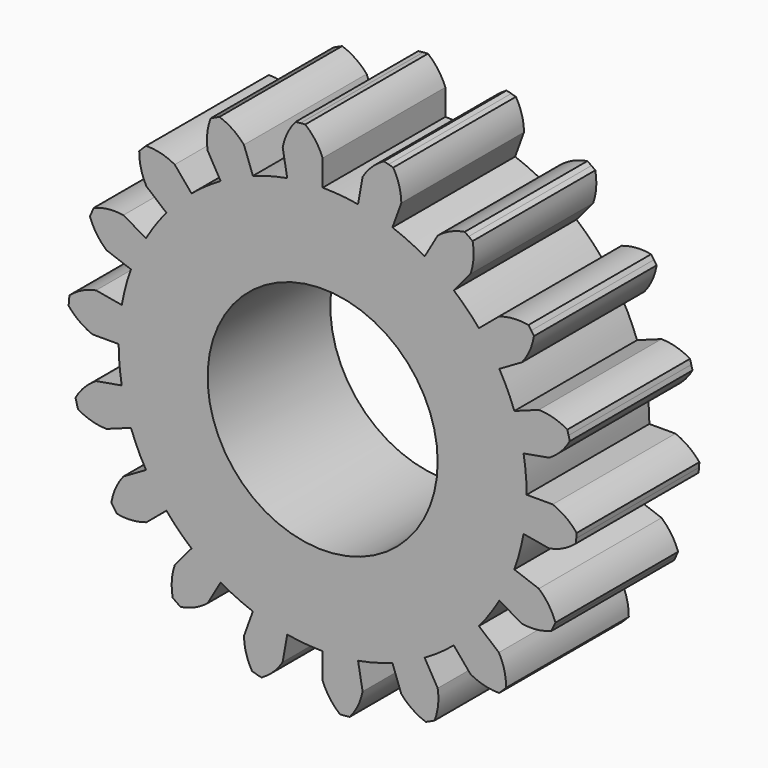
from build123d import *

# Parameters (mm, degrees)
F0_R     = 9.525
F1_DEPTH = 12.7


with BuildPart() as f1:
    # F0 (on Front) → F1 (new body)
    with BuildSketch(Plane.XZ):
        with BuildLine():
            Line((-3.307998, 18.760588), (-2.933091, 16.634388))
            ThreePointArc((-2.933091, 16.634388), (-4.371712, 16.315453), (-5.777062, 15.872348))
            Line((-5.777062, 15.872348), (-6.515484, 17.901144))
            ThreePointArc((-6.515484, 17.901144), (-7.4402, 18.719678), (-8.544287, 19.272931))
            ThreePointArc((-8.544287, 19.272931), (-8.727358, 19.190725), (-8.909638, 19.106781))
            ThreePointArc((-8.909638, 19.106781), (-9.091111, 19.021105), (-9.27176, 18.933705))
            ThreePointArc((-9.27176, 18.933705), (-9.557637, 17.732301), (-9.525, 16.497784))
            Line((-9.525, 16.497784), (-8.4455, 14.628035))
            ThreePointArc((-8.4455, 14.628035), (-9.68828, 13.836297), (-10.857325, 12.939257))
            Line((-10.857325, 12.939257), (-12.245104, 14.593147))
            ThreePointArc((-12.245104, 14.593147), (-13.394008, 15.046045), (-14.620735, 15.188313))
            ThreePointArc((-14.620735, 15.188313), (-14.764649, 15.048451), (-14.907225, 14.907225))
            ThreePointArc((-14.907225, 14.907225), (-15.048451, 14.764649), (-15.188313, 14.620735))
            ThreePointArc((-15.188313, 14.620735), (-15.046045, 13.394008), (-14.593147, 12.245104))
            Line((-14.593147, 12.245104), (-12.939257, 10.857326))
            ThreePointArc((-12.939257, 10.857326), (-13.836297, 9.68828), (-14.628035, 8.4455))
            Line((-14.628035, 8.4455), (-16.497784, 9.525))
            ThreePointArc((-16.497784, 9.525), (-17.732301, 9.557637), (-18.933705, 9.27176))
            ThreePointArc((-18.933705, 9.27176), (-19.021105, 9.091111), (-19.106781, 8.909638))
            ThreePointArc((-19.106781, 8.909638), (-19.190725, 8.727358), (-19.272931, 8.544288))
            ThreePointArc((-19.272931, 8.544288), (-18.719678, 7.4402), (-17.901144, 6.515484))
            Line((-17.901144, 6.515484), (-15.872348, 5.777062))
            ThreePointArc((-15.872348, 5.777062), (-16.315453, 4.371713), (-16.634388, 2.933091))
            Line((-16.634388, 2.933091), (-18.760588, 3.307998))
            ThreePointArc((-18.760588, 3.307998), (-19.931817, 2.916437), (-20.962992, 2.236896))
            ThreePointArc((-20.962992, 2.236896), (-20.983335, 2.037249), (-21.001777, 1.837417))
            ThreePointArc((-21.001777, 1.837417), (-21.018315, 1.63742), (-21.03295, 1.437273))
            ThreePointArc((-21.03295, 1.437273), (-20.135442, 0.588994), (-19.05, 0))
            Line((-19.05, 0), (-16.891, 0))
            ThreePointArc((-16.891, 0), (-16.826725, -1.472148), (-16.634388, -2.933091))
            Line((-16.634388, -2.933091), (-18.760588, -3.307998))
            ThreePointArc((-18.760588, -3.307998), (-19.727261, -4.076529), (-20.463832, -5.067771))
            ThreePointArc((-20.463832, -5.067771), (-20.414665, -5.262336), (-20.363648, -5.456423))
            ThreePointArc((-20.363648, -5.456423), (-20.310786, -5.650016), (-20.256084, -5.843097))
            ThreePointArc((-20.256084, -5.843097), (-19.122574, -6.333253), (-17.901144, -6.515484))
            Line((-17.901144, -6.515484), (-15.872348, -5.777062))
            ThreePointArc((-15.872348, -5.777062), (-15.308445, -7.138445), (-14.628035, -8.4455))
            Line((-14.628035, -8.4455), (-16.497784, -9.525))
            ThreePointArc((-16.497784, -9.525), (-17.143307, -10.577805), (-17.496432, -11.76119))
            ThreePointArc((-17.496432, -11.76119), (-17.383685, -11.927205), (-17.269363, -12.092138))
            ThreePointArc((-17.269363, -12.092138), (-17.153477, -12.255977), (-17.036036, -12.418704))
            ThreePointArc((-17.036036, -12.418704), (-15.803241, -12.491617), (-14.593147, -12.245104))
            Line((-14.593147, -12.245104), (-12.939257, -10.857325))
            ThreePointArc((-12.939257, -10.857325), (-11.943741, -11.943741), (-10.857326, -12.939257))
            Line((-10.857326, -12.939257), (-12.245104, -14.593147))
            ThreePointArc((-12.245104, -14.593147), (-12.491617, -15.803241), (-12.418704, -17.036036))
            ThreePointArc((-12.418704, -17.036036), (-12.255977, -17.153477), (-12.092138, -17.269363))
            ThreePointArc((-12.092138, -17.269363), (-11.927205, -17.383685), (-11.76119, -17.496432))
            ThreePointArc((-11.76119, -17.496432), (-10.577805, -17.143307), (-9.525, -16.497784))
            Line((-9.525, -16.497784), (-8.4455, -14.628035))
            ThreePointArc((-8.4455, -14.628035), (-7.138445, -15.308445), (-5.777062, -15.872348))
            Line((-5.777062, -15.872348), (-6.515484, -17.901144))
            ThreePointArc((-6.515484, -17.901144), (-6.333253, -19.122574), (-5.843097, -20.256084))
            ThreePointArc((-5.843097, -20.256084), (-5.650016, -20.310786), (-5.456423, -20.363648))
            ThreePointArc((-5.456423, -20.363648), (-5.262336, -20.414665), (-5.067771, -20.463832))
            ThreePointArc((-5.067771, -20.463832), (-4.076529, -19.727261), (-3.307998, -18.760588))
            Line((-3.307998, -18.760588), (-2.933091, -16.634388))
            ThreePointArc((-2.933091, -16.634388), (-1.472148, -16.826725), (0, -16.891))
            Line((0, -16.891), (0, -19.05))
            ThreePointArc((0, -19.05), (0.588994, -20.135442), (1.437273, -21.03295))
            ThreePointArc((1.437273, -21.03295), (1.637419, -21.018315), (1.837417, -21.001777))
            ThreePointArc((1.837417, -21.001777), (2.037249, -20.983335), (2.236896, -20.962992))
            ThreePointArc((2.236896, -20.962992), (2.916437, -19.931817), (3.307998, -18.760588))
            Line((3.307998, -18.760588), (2.933091, -16.634388))
            ThreePointArc((2.933091, -16.634388), (4.371712, -16.315453), (5.777062, -15.872348))
            Line((5.777062, -15.872348), (6.515484, -17.901144))
            ThreePointArc((6.515484, -17.901144), (7.4402, -18.719678), (8.544287, -19.272931))
            ThreePointArc((8.544287, -19.272931), (8.727358, -19.190725), (8.909638, -19.106781))
            ThreePointArc((8.909638, -19.106781), (9.091111, -19.021105), (9.27176, -18.933705))
            ThreePointArc((9.27176, -18.933705), (9.557637, -17.732301), (9.525, -16.497784))
            Line((9.525, -16.497784), (8.4455, -14.628035))
            ThreePointArc((8.4455, -14.628035), (9.68828, -13.836297), (10.857325, -12.939257))
            Line((10.857325, -12.939257), (12.245104, -14.593147))
            ThreePointArc((12.245104, -14.593147), (13.394008, -15.046045), (14.620735, -15.188313))
            ThreePointArc((14.620735, -15.188313), (14.764649, -15.048451), (14.907225, -14.907225))
            ThreePointArc((14.907225, -14.907225), (15.048451, -14.764649), (15.188313, -14.620735))
            ThreePointArc((15.188313, -14.620735), (15.046045, -13.394008), (14.593147, -12.245104))
            Line((14.593147, -12.245104), (12.939257, -10.857326))
            ThreePointArc((12.939257, -10.857326), (13.836297, -9.68828), (14.628035, -8.4455))
            Line((14.628035, -8.4455), (16.497784, -9.525))
            ThreePointArc((16.497784, -9.525), (17.732301, -9.557637), (18.933705, -9.27176))
            ThreePointArc((18.933705, -9.27176), (19.021105, -9.091111), (19.106781, -8.909638))
            ThreePointArc((19.106781, -8.909638), (19.190725, -8.727358), (19.272931, -8.544287))
            ThreePointArc((19.272931, -8.544287), (18.719678, -7.4402), (17.901144, -6.515484))
            Line((17.901144, -6.515484), (15.872348, -5.777062))
            ThreePointArc((15.872348, -5.777062), (16.315453, -4.371713), (16.634388, -2.933091))
            Line((16.634388, -2.933091), (18.760588, -3.307998))
            ThreePointArc((18.760588, -3.307998), (19.931817, -2.916437), (20.962992, -2.236896))
            ThreePointArc((20.962992, -2.236896), (20.983335, -2.037249), (21.001777, -1.837417))
            ThreePointArc((21.001777, -1.837417), (21.018315, -1.637419), (21.03295, -1.437273))
            ThreePointArc((21.03295, -1.437273), (20.135442, -0.588994), (19.05, 0))
            Line((19.05, 0), (16.891, 0))
            ThreePointArc((16.891, 0), (16.826725, 1.472148), (16.634388, 2.933091))
            Line((16.634388, 2.933091), (18.760588, 3.307998))
            ThreePointArc((18.760588, 3.307998), (19.727261, 4.076529), (20.463832, 5.067771))
            ThreePointArc((20.463832, 5.067771), (20.414665, 5.262336), (20.363648, 5.456423))
            ThreePointArc((20.363648, 5.456423), (20.310786, 5.650016), (20.256084, 5.843097))
            ThreePointArc((20.256084, 5.843097), (19.122574, 6.333253), (17.901144, 6.515484))
            Line((17.901144, 6.515484), (15.872348, 5.777062))
            ThreePointArc((15.872348, 5.777062), (15.308445, 7.138445), (14.628035, 8.4455))
            Line((14.628035, 8.4455), (16.497784, 9.525))
            ThreePointArc((16.497784, 9.525), (17.143307, 10.577805), (17.496432, 11.76119))
            ThreePointArc((17.496432, 11.76119), (17.383685, 11.927205), (17.269363, 12.092138))
            ThreePointArc((17.269363, 12.092138), (17.153477, 12.255977), (17.036036, 12.418704))
            ThreePointArc((17.036036, 12.418704), (15.803241, 12.491617), (14.593147, 12.245104))
            Line((14.593147, 12.245104), (12.939257, 10.857326))
            ThreePointArc((12.939257, 10.857326), (11.943741, 11.943741), (10.857326, 12.939257))
            Line((10.857326, 12.939257), (12.245104, 14.593147))
            ThreePointArc((12.245104, 14.593147), (12.491617, 15.803241), (12.418704, 17.036036))
            ThreePointArc((12.418704, 17.036036), (12.255977, 17.153477), (12.092138, 17.269363))
            ThreePointArc((12.092138, 17.269363), (11.927205, 17.383685), (11.76119, 17.496432))
            ThreePointArc((11.76119, 17.496432), (10.577805, 17.143307), (9.525, 16.497784))
            Line((9.525, 16.497784), (8.4455, 14.628035))
            ThreePointArc((8.4455, 14.628035), (7.138445, 15.308445), (5.777062, 15.872348))
            Line((5.777062, 15.872348), (6.515484, 17.901144))
            ThreePointArc((6.515484, 17.901144), (6.333253, 19.122574), (5.843097, 20.256084))
            ThreePointArc((5.843097, 20.256084), (5.650016, 20.310786), (5.456423, 20.363648))
            ThreePointArc((5.456423, 20.363648), (5.262336, 20.414665), (5.067771, 20.463832))
            ThreePointArc((5.067771, 20.463832), (4.076529, 19.727261), (3.307998, 18.760588))
            Line((3.307998, 18.760588), (2.933091, 16.634388))
            ThreePointArc((2.933091, 16.634388), (1.472148, 16.826725), (0, 16.891))
            Line((0, 16.891), (0, 19.05))
            ThreePointArc((0, 19.05), (-0.588994, 20.135442), (-1.437273, 21.03295))
            ThreePointArc((-1.437273, 21.03295), (-1.637419, 21.018315), (-1.837417, 21.001777))
            ThreePointArc((-1.837417, 21.001777), (-2.037249, 20.983335), (-2.236896, 20.962992))
            ThreePointArc((-2.236896, 20.962992), (-2.916437, 19.931817), (-3.307998, 18.760588))
        make_face()
        Circle(F0_R, mode=Mode.SUBTRACT)
    extrude(amount=F1_DEPTH)


solid = f1.part
